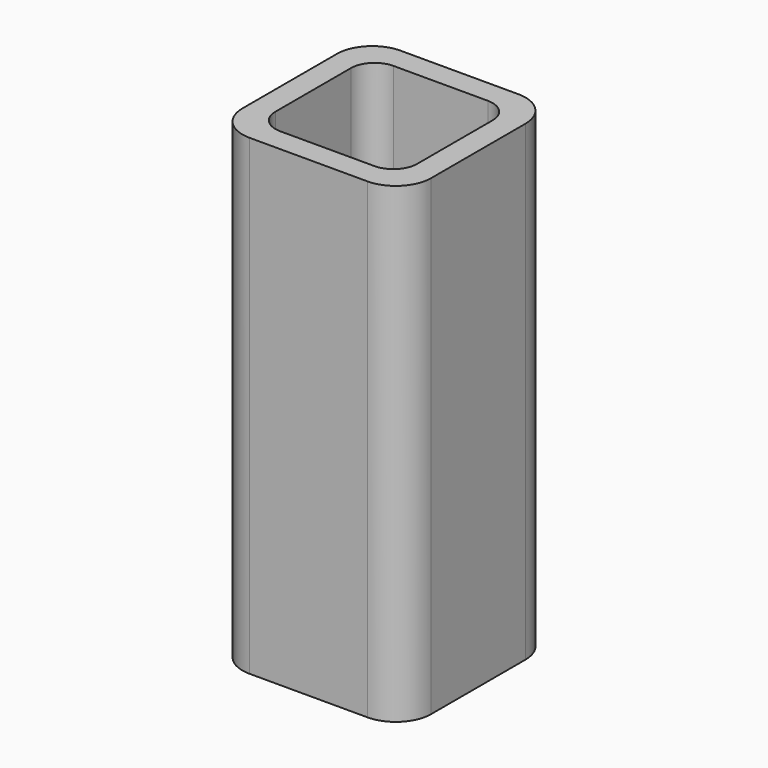
from build123d import *

# Parameters (mm, degrees)
EXTRUDE_DEPTH = 50


with BuildPart() as part:
    # Sketch → Extrude (new body)
    with BuildSketch(Plane.XY):
        with BuildLine():
            Line((-6.25, 10), (6.25, 10))
            ThreePointArc((10, 6.25), (8.90165, 8.90165), (6.25, 10))
            Line((10, 6.25), (10, -6.25))
            ThreePointArc((6.25, -10), (8.90165, -8.90165), (10, -6.25))
            Line((6.25, -10), (-6.25, -10))
            ThreePointArc((-10, -6.25), (-8.90165, -8.90165), (-6.25, -10))
            Line((-10, -6.25), (-10, 6.25))
            ThreePointArc((-6.25, 10), (-8.90165, 8.90165), (-10, 6.25))
        make_face()
        with BuildLine():
            Line((-5, 7.5), (5, 7.5))
            ThreePointArc((7.5, 5), (6.767767, 6.767767), (5, 7.5))
            Line((7.5, 5), (7.5, -5))
            ThreePointArc((5, -7.5), (6.767767, -6.767767), (7.5, -5))
            Line((5, -7.5), (-5, -7.5))
            ThreePointArc((-7.5, -5), (-6.767767, -6.767767), (-5, -7.5))
            Line((-7.5, -5), (-7.5, 5))
            ThreePointArc((-5, 7.5), (-6.767767, 6.767767), (-7.5, 5))
        make_face(mode=Mode.SUBTRACT)
    extrude(amount=EXTRUDE_DEPTH)


solid = part.part
